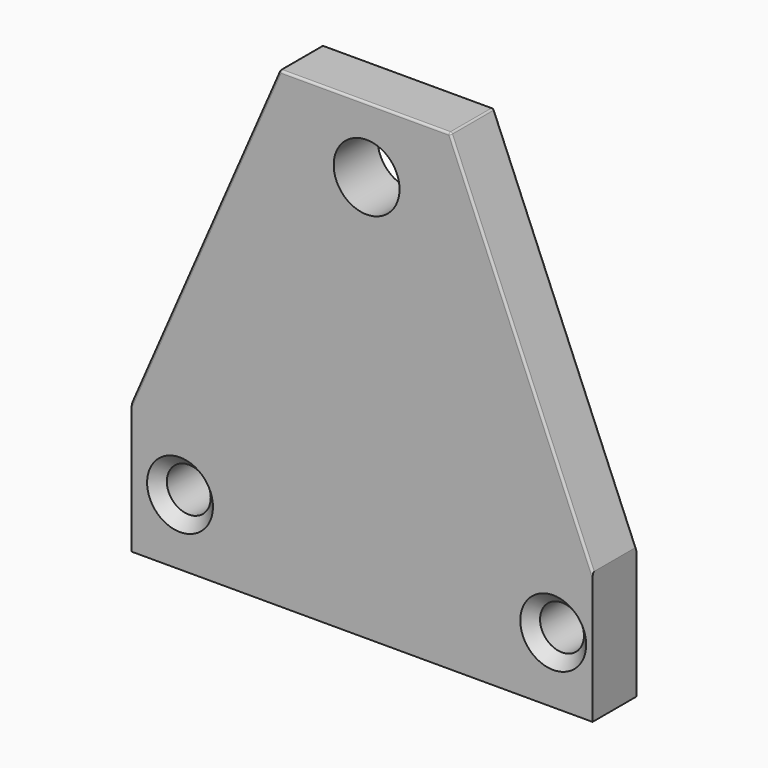
from build123d import *

# Parameters (mm, degrees)
F0_R     = 2
F0_R_2   = 3
F1_DEPTH = 5
F2_R     = 0.2
F3_SIZE  = 1


with BuildPart() as f1:
    # F0 (on Front) → F1 (new body)
    with BuildSketch(Plane.XZ):
        Polygon((-21.416343, -9.780747), (-21.416343, -21.780747), (20.583657, -21.780747), (20.583657, -9.780747), (7.621113, 21.219253), (-7.929415, 21.219253), align=None)
        with Locations((-17, -15.780747)):
            Circle(F0_R, mode=Mode.SUBTRACT)
        with Locations((17, -15.780747)):
            Circle(F0_R, mode=Mode.SUBTRACT)
        with Locations((0, 15.219253)):
            Circle(F0_R_2, mode=Mode.SUBTRACT)
    extrude(amount=F1_DEPTH)

    # F2
    f2_edges = [f1.edges().sort_by_distance(p)[0] for p in [
        (-14.672879, -5, 5.719253),
        (-0.154151, -5, 21.219253),
        (14.102385, -5, 5.719253),
        (14.102385, 0, 5.719253),
        (-0.154151, 0, 21.219253),
        (7.621113, -2.5, 21.219253),
        (-7.929415, -2.5, 21.219253),
        (-14.672879, 0, 5.719253),
    ]]
    fillet(f2_edges, radius=F2_R)

    # F3
    f3_edges = [f1.edges().sort_by_distance(p)[0] for p in [
        (-19, -5, -15.780747),
        (15, -5, -15.780747),
    ]]
    chamfer(f3_edges, length=F3_SIZE)


solid = f1.part
